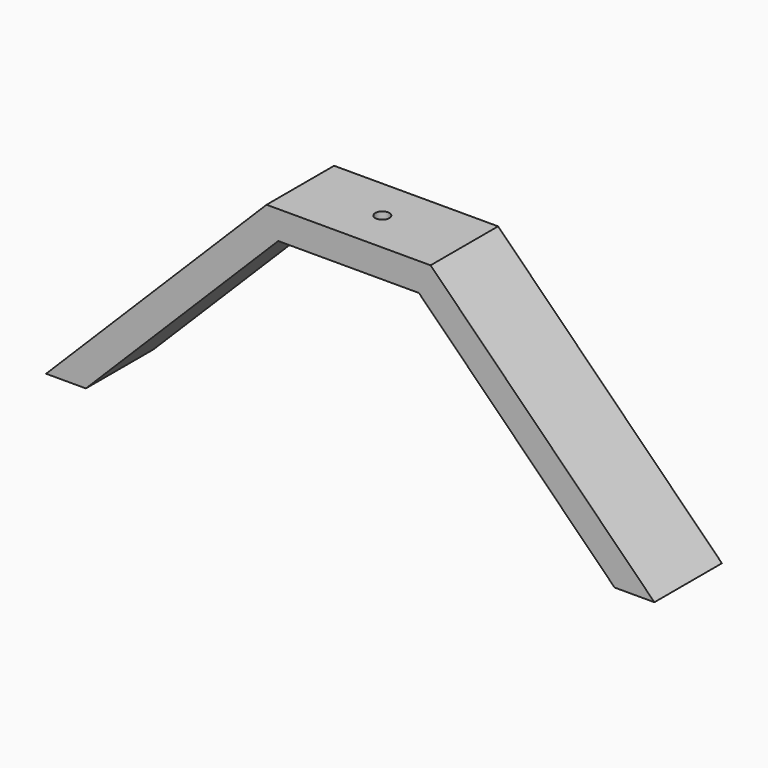
from build123d import *

# Parameters (mm, degrees)
F1_DEPTH = 12
F2_R     = 1
F3_DEPTH = 31.821


with BuildPart() as f1:
    # F0 (on Front) → F1 (new body)
    with BuildSketch(Plane.XZ):
        Polygon((-37.342963, -27.342963), (-10, 0), (10, 0), (37.82, -27.82), (43.476854, -27.82), (11.656854, 4), (-11.656854, 4), (-42.999817, -27.342963), align=None)
    extrude(amount=F1_DEPTH)

    # F2 (on face) → F3 (cut, through all)
    with BuildSketch(Plane.XY.offset(4)):
        with Locations((0, -6)):
            Circle(F2_R)
    extrude(amount=-F3_DEPTH, mode=Mode.SUBTRACT)


solid = f1.part
